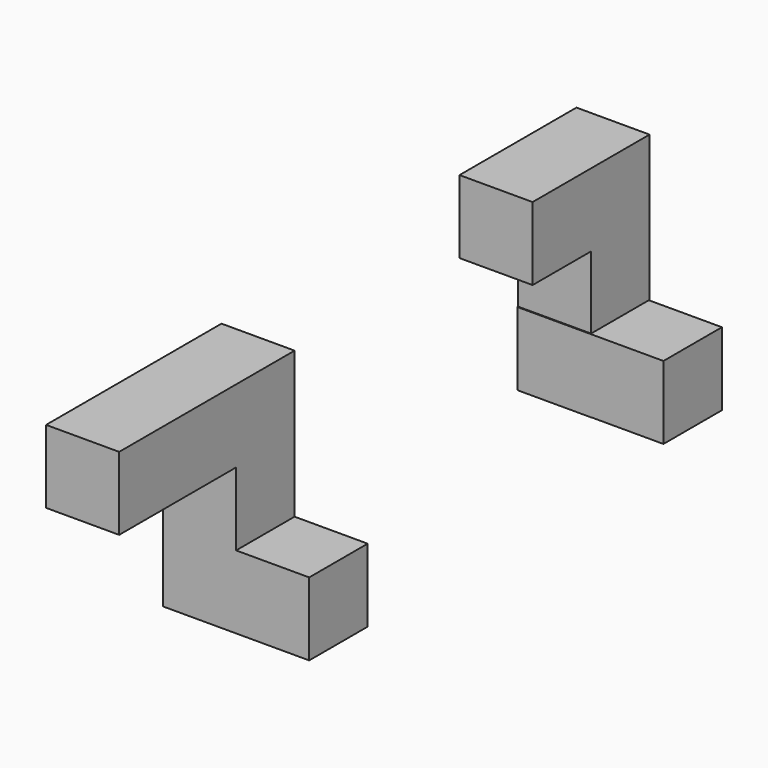
from build123d import *

# Parameters (mm, degrees)
F1_DEPTH = 10
F2_W     = 10
F2_H     = 10
F3_DEPTH = 10
F5_DEPTH = 10
F6_W     = 10
F6_H     = 10
F7_DEPTH = 20


with BuildPart() as f1:
    # F0 (on Right) → F1 (new body)
    with BuildSketch(Plane.YZ):
        Polygon((-26.959953, 48.531529), (-56.959953, 48.531529), (-56.959953, 38.531529), (-36.959953, 38.531529), (-36.959953, 18.531529), (-26.959953, 18.531529), align=None)
    extrude(amount=F1_DEPTH)

    # F2 (on face) → F3 (join)
    with BuildSketch(Plane.YZ.offset(10)):
        with Locations((-31.959953, 23.531529)):
            Rectangle(F2_W, F2_H)
    extrude(amount=F3_DEPTH)


with BuildPart() as f5:
    # F4 (on Right) → F5 (new body)
    with BuildSketch(Plane.YZ):
        Polygon((33.747681, 49.877016), (13.747681, 49.877016), (13.747681, 39.877016), (23.747681, 39.877016), (23.747681, 19.877016), (33.747681, 19.877016), align=None)
    extrude(amount=F5_DEPTH)

    # F6 (on Right) → F7 (join)
    with BuildSketch(Plane.YZ):
        with Locations((28.627831, 24.973129)):
            Rectangle(F6_W, F6_H)
    extrude(amount=F7_DEPTH)


solid = Compound([f1.part, f5.part])
